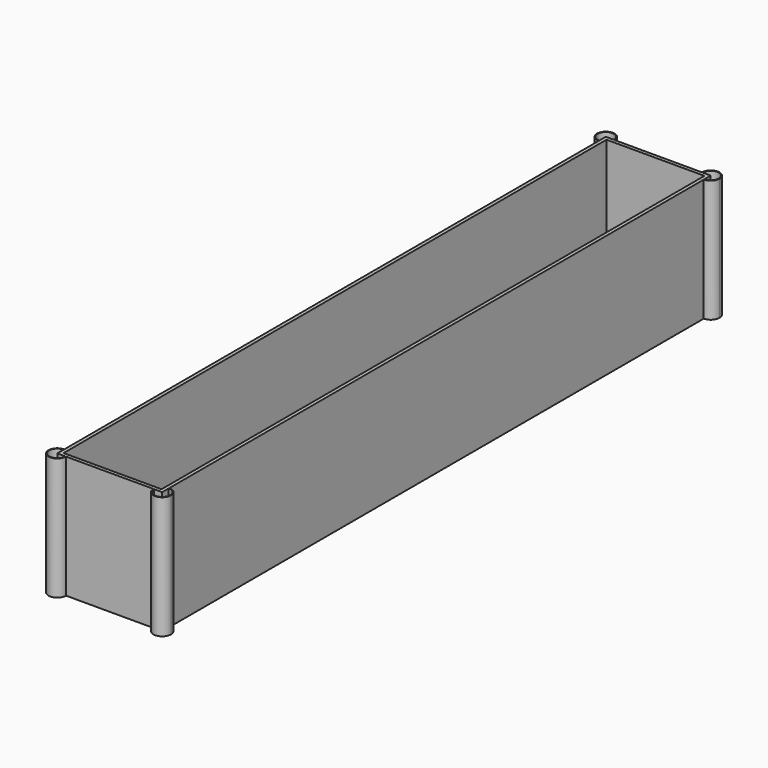
from build123d import *

# Parameters (mm, degrees)
F1_DEPTH = 44.45
F2_DEPTH = 1.27


with BuildPart() as f1:
    # F0 (on Top) → F1 (new body)
    with BuildSketch(Plane.XY):
        with BuildLine():
            Line((-16.129, 124.46), (-19.05, 124.46))
            Line((-19.05, 124.46), (-19.05, 121.539))
            ThreePointArc((-19.05, 121.539), (-18.3985955267, 121.6125602355), (-17.78, 121.8295359725))
            Line((-17.78, 121.8295359725), (-17.78, 123.19))
            Line((-17.78, 123.19), (-16.4195359725, 123.19))
            ThreePointArc((-16.4195359725, 123.19), (-16.2025602355, 123.8085955267), (-16.129, 124.46))
        make_face()
        with BuildLine():
            Line((-15.875, 124.46), (-16.129, 124.46))
            ThreePointArc((-16.129, 124.46), (-16.2025602355, 123.8085955267), (-16.4195359725, 123.19))
            Line((-16.4195359725, 123.19), (-16.1400644337, 123.19))
            ThreePointArc((-16.1400644337, 123.19), (-15.9419724564, 123.8113168813), (-15.875, 124.46))
        make_face()
        with BuildLine():
            Line((15.875, 124.46), (-15.875, 124.46))
            ThreePointArc((-15.875, 124.46), (-15.9419724564, 123.8113168813), (-16.1400644337, 123.19))
            Line((-16.1400644337, 123.19), (16.1400644337, 123.19))
            ThreePointArc((16.1400644337, 123.19), (15.9419724564, 123.8113168813), (15.875, 124.46))
        make_face()
        with BuildLine():
            Line((16.129, 124.46), (15.875, 124.46))
            ThreePointArc((15.875, 124.46), (15.9419724564, 123.8113168813), (16.1400644337, 123.19))
            Line((16.1400644337, 123.19), (16.4195359725, 123.19))
            ThreePointArc((16.4195359725, 123.19), (16.2025602355, 123.8085955267), (16.129, 124.46))
        make_face()
        with BuildLine():
            Line((19.05, 124.46), (16.129, 124.46))
            ThreePointArc((16.129, 124.46), (16.2025602355, 123.8085955267), (16.4195359725, 123.19))
            Line((16.4195359725, 123.19), (17.78, 123.19))
            Line((17.78, 123.19), (17.78, 121.8295359725))
            ThreePointArc((17.78, 121.8295359725), (18.3985955267, 121.6125602355), (19.05, 121.539))
            Line((19.05, 121.539), (19.05, 124.46))
        make_face()
        with BuildLine():
            Line((15.875, 124.46), (-15.875, 124.46))
            ThreePointArc((-15.875, 124.46), (-15.9419724564, 123.8113168813), (-16.1400644337, 123.19))
            Line((-16.1400644337, 123.19), (16.1400644337, 123.19))
            ThreePointArc((16.1400644337, 123.19), (15.9419724564, 123.8113168813), (15.875, 124.46))
        make_face()
        with BuildLine():
            ThreePointArc((22.225, 124.46), (19.05, 127.635), (15.875, 124.46))
            Line((15.875, 124.46), (16.129, 124.46))
            ThreePointArc((16.129, 124.46), (19.05, 127.381), (21.971, 124.46))
            ThreePointArc((21.971, 124.46), (21.1154589078, 122.3945410922), (19.05, 121.539))
            Line((19.05, 121.539), (19.05, 121.285))
            ThreePointArc((19.05, 121.285), (21.2950640303, 122.2149359697), (22.225, 124.46))
        make_face()
        with BuildLine():
            ThreePointArc((-19.05, 121.539), (-21.1154589078, 126.5254589078), (-16.129, 124.46))
            Line((-16.129, 124.46), (-15.875, 124.46))
            ThreePointArc((-15.875, 124.46), (-21.2950640303, 126.7050640303), (-19.05, 121.285))
            Line((-19.05, 121.285), (-19.05, 121.539))
        make_face()
        with BuildLine():
            ThreePointArc((-17.78, -121.8295359725), (-18.3985955267, -121.6125602355), (-19.05, -121.539))
            Line((-19.05, -121.539), (-19.05, -124.46))
            Line((-19.05, -124.46), (-16.129, -124.46))
            ThreePointArc((-16.129, -124.46), (-16.2025602355, -123.8085955267), (-16.4195359725, -123.19))
            Line((-16.4195359725, -123.19), (-17.78, -123.19))
            Line((-17.78, -123.19), (-17.78, -121.8295359725))
        make_face()
        with BuildLine():
            Line((-19.05, -121.539), (-19.05, -121.285))
            ThreePointArc((-19.05, -121.285), (-21.2950640303, -126.7050640303), (-15.875, -124.46))
            Line((-15.875, -124.46), (-16.129, -124.46))
            ThreePointArc((-16.129, -124.46), (-21.1154589078, -126.5254589078), (-19.05, -121.539))
        make_face()
        with BuildLine():
            ThreePointArc((16.4195359725, -123.19), (16.2025602355, -123.8085955267), (16.129, -124.46))
            Line((16.129, -124.46), (19.05, -124.46))
            Line((19.05, -124.46), (19.05, -121.539))
            ThreePointArc((19.05, -121.539), (18.3985955267, -121.6125602355), (17.78, -121.8295359725))
            Line((17.78, -121.8295359725), (17.78, -123.19))
            Line((17.78, -123.19), (16.4195359725, -123.19))
        make_face()
        with BuildLine():
            Line((16.129, -124.46), (15.875, -124.46))
            ThreePointArc((15.875, -124.46), (19.05, -127.635), (22.225, -124.46))
            ThreePointArc((22.225, -124.46), (21.2950640303, -122.2149359697), (19.05, -121.285))
            Line((19.05, -121.285), (19.05, -121.539))
            ThreePointArc((19.05, -121.539), (21.1154589078, -122.3945410922), (21.971, -124.46))
            ThreePointArc((21.971, -124.46), (19.05, -127.381), (16.129, -124.46))
        make_face()
        with BuildLine():
            ThreePointArc((16.1400644337, -123.19), (15.9419724564, -123.8113168813), (15.875, -124.46))
            Line((15.875, -124.46), (16.129, -124.46))
            ThreePointArc((16.129, -124.46), (16.2025602355, -123.8085955267), (16.4195359725, -123.19))
            Line((16.4195359725, -123.19), (16.1400644337, -123.19))
        make_face()
        with BuildLine():
            ThreePointArc((-17.78, 121.5500644337), (-18.4013168813, 121.3519724564), (-19.05, 121.285))
            Line((-19.05, 121.285), (-19.05, -121.285))
            ThreePointArc((-19.05, -121.285), (-18.4013168813, -121.3519724564), (-17.78, -121.5500644337))
            Line((-17.78, -121.5500644337), (-17.78, 121.5500644337))
        make_face()
        with BuildLine():
            Line((-16.129, 124.46), (-19.05, 124.46))
            Line((-19.05, 124.46), (-19.05, 121.539))
            ThreePointArc((-19.05, 121.539), (-18.3985955267, 121.6125602355), (-17.78, 121.8295359725))
            Line((-17.78, 121.8295359725), (-17.78, 123.19))
            Line((-17.78, 123.19), (-16.4195359725, 123.19))
            ThreePointArc((-16.4195359725, 123.19), (-16.2025602355, 123.8085955267), (-16.129, 124.46))
        make_face()
        with BuildLine():
            Line((19.05, -121.285), (19.05, 121.285))
            ThreePointArc((19.05, 121.285), (18.4013168813, 121.3519724564), (17.78, 121.5500644337))
            Line((17.78, 121.5500644337), (17.78, -121.5500644337))
            ThreePointArc((17.78, -121.5500644337), (18.4013168813, -121.3519724564), (19.05, -121.285))
        make_face()
        with BuildLine():
            Line((19.05, 124.46), (16.129, 124.46))
            ThreePointArc((16.129, 124.46), (16.2025602355, 123.8085955267), (16.4195359725, 123.19))
            Line((16.4195359725, 123.19), (17.78, 123.19))
            Line((17.78, 123.19), (17.78, 121.8295359725))
            ThreePointArc((17.78, 121.8295359725), (18.3985955267, 121.6125602355), (19.05, 121.539))
            Line((19.05, 121.539), (19.05, 124.46))
        make_face()
        with BuildLine():
            ThreePointArc((-16.1400644337, -123.19), (-15.9419724564, -123.8113168813), (-15.875, -124.46))
            Line((-15.875, -124.46), (15.875, -124.46))
            ThreePointArc((15.875, -124.46), (15.9419724564, -123.8113168813), (16.1400644337, -123.19))
            Line((16.1400644337, -123.19), (-16.1400644337, -123.19))
        make_face()
        with BuildLine():
            Line((19.05, -121.539), (19.05, -121.285))
            ThreePointArc((19.05, -121.285), (18.4013168813, -121.3519724564), (17.78, -121.5500644337))
            Line((17.78, -121.5500644337), (17.78, -121.8295359725))
            ThreePointArc((17.78, -121.8295359725), (18.3985955267, -121.6125602355), (19.05, -121.539))
        make_face()
        with BuildLine():
            Line((-16.129, -124.46), (-15.875, -124.46))
            ThreePointArc((-15.875, -124.46), (-15.9419724564, -123.8113168813), (-16.1400644337, -123.19))
            Line((-16.1400644337, -123.19), (-16.4195359725, -123.19))
            ThreePointArc((-16.4195359725, -123.19), (-16.2025602355, -123.8085955267), (-16.129, -124.46))
        make_face()
        with BuildLine():
            ThreePointArc((-17.78, -121.5500644337), (-18.4013168813, -121.3519724564), (-19.05, -121.285))
            Line((-19.05, -121.285), (-19.05, -121.539))
            ThreePointArc((-19.05, -121.539), (-18.3985955267, -121.6125602355), (-17.78, -121.8295359725))
            Line((-17.78, -121.8295359725), (-17.78, -121.5500644337))
        make_face()
        with BuildLine():
            ThreePointArc((17.78, 121.5500644337), (18.4013168813, 121.3519724564), (19.05, 121.285))
            Line((19.05, 121.285), (19.05, 121.539))
            ThreePointArc((19.05, 121.539), (18.3985955267, 121.6125602355), (17.78, 121.8295359725))
            Line((17.78, 121.8295359725), (17.78, 121.5500644337))
        make_face()
        with BuildLine():
            ThreePointArc((-17.78, 121.8295359725), (-18.3985955267, 121.6125602355), (-19.05, 121.539))
            Line((-19.05, 121.539), (-19.05, 121.285))
            ThreePointArc((-19.05, 121.285), (-18.4013168813, 121.3519724564), (-17.78, 121.5500644337))
            Line((-17.78, 121.5500644337), (-17.78, 121.8295359725))
        make_face()
    extrude(amount=F1_DEPTH)

    # F0 (on Top) → F2 (join)
    with BuildSketch(Plane.XY):
        with BuildLine():
            Line((16.1400644337, 123.19), (-16.1400644337, 123.19))
            ThreePointArc((-16.1400644337, 123.19), (-16.8049359697, 122.2149359697), (-17.78, 121.5500644337))
            Line((-17.78, 121.5500644337), (-17.78, -121.5500644337))
            ThreePointArc((-17.78, -121.5500644337), (-16.8049359697, -122.2149359697), (-16.1400644337, -123.19))
            Line((-16.1400644337, -123.19), (16.1400644337, -123.19))
            ThreePointArc((16.1400644337, -123.19), (16.8049359697, -122.2149359697), (17.78, -121.5500644337))
            Line((17.78, -121.5500644337), (17.78, 121.5500644337))
            ThreePointArc((17.78, 121.5500644337), (16.8049359697, 122.2149359697), (16.1400644337, 123.19))
        make_face()
        with BuildLine():
            ThreePointArc((-17.78, 121.8295359725), (-16.9845410922, 122.3945410922), (-16.4195359725, 123.19))
            Line((-16.4195359725, 123.19), (-17.78, 123.19))
            Line((-17.78, 123.19), (-17.78, 121.8295359725))
        make_face()
        with BuildLine():
            Line((-16.1400644337, 123.19), (-16.4195359725, 123.19))
            ThreePointArc((-16.4195359725, 123.19), (-16.9845410922, 122.3945410922), (-17.78, 121.8295359725))
            Line((-17.78, 121.8295359725), (-17.78, 121.5500644337))
            ThreePointArc((-17.78, 121.5500644337), (-16.8049359697, 122.2149359697), (-16.1400644337, 123.19))
        make_face()
        with BuildLine():
            Line((17.78, 123.19), (16.4195359725, 123.19))
            ThreePointArc((16.4195359725, 123.19), (16.9845410922, 122.3945410922), (17.78, 121.8295359725))
            Line((17.78, 121.8295359725), (17.78, 123.19))
        make_face()
        with BuildLine():
            Line((16.4195359725, 123.19), (16.1400644337, 123.19))
            ThreePointArc((16.1400644337, 123.19), (16.8049359697, 122.2149359697), (17.78, 121.5500644337))
            Line((17.78, 121.5500644337), (17.78, 121.8295359725))
            ThreePointArc((17.78, 121.8295359725), (16.9845410922, 122.3945410922), (16.4195359725, 123.19))
        make_face()
        with BuildLine():
            Line((17.78, -123.19), (17.78, -121.8295359725))
            ThreePointArc((17.78, -121.8295359725), (16.9845410922, -122.3945410922), (16.4195359725, -123.19))
            Line((16.4195359725, -123.19), (17.78, -123.19))
        make_face()
        with BuildLine():
            Line((17.78, -121.8295359725), (17.78, -121.5500644337))
            ThreePointArc((17.78, -121.5500644337), (16.8049359697, -122.2149359697), (16.1400644337, -123.19))
            Line((16.1400644337, -123.19), (16.4195359725, -123.19))
            ThreePointArc((16.4195359725, -123.19), (16.9845410922, -122.3945410922), (17.78, -121.8295359725))
        make_face()
        with BuildLine():
            ThreePointArc((-16.1400644337, -123.19), (-16.8049359697, -122.2149359697), (-17.78, -121.5500644337))
            Line((-17.78, -121.5500644337), (-17.78, -121.8295359725))
            ThreePointArc((-17.78, -121.8295359725), (-16.9845410922, -122.3945410922), (-16.4195359725, -123.19))
            Line((-16.4195359725, -123.19), (-16.1400644337, -123.19))
        make_face()
        with BuildLine():
            ThreePointArc((-16.4195359725, -123.19), (-16.9845410922, -122.3945410922), (-17.78, -121.8295359725))
            Line((-17.78, -121.8295359725), (-17.78, -123.19))
            Line((-17.78, -123.19), (-16.4195359725, -123.19))
        make_face()
        with BuildLine():
            Line((19.05, -124.46), (16.129, -124.46))
            ThreePointArc((16.129, -124.46), (19.05, -127.381), (21.971, -124.46))
            ThreePointArc((21.971, -124.46), (21.1154589078, -122.3945410922), (19.05, -121.539))
            Line((19.05, -121.539), (19.05, -124.46))
        make_face()
        with BuildLine():
            Line((-19.05, -124.46), (-19.05, -121.539))
            ThreePointArc((-19.05, -121.539), (-21.1154589078, -126.5254589078), (-16.129, -124.46))
            Line((-16.129, -124.46), (-19.05, -124.46))
        make_face()
        with BuildLine():
            ThreePointArc((21.971, 124.46), (19.05, 127.381), (16.129, 124.46))
            Line((16.129, 124.46), (19.05, 124.46))
            Line((19.05, 124.46), (19.05, 121.539))
            ThreePointArc((19.05, 121.539), (21.1154589078, 122.3945410922), (21.971, 124.46))
        make_face()
        with BuildLine():
            Line((-19.05, 121.539), (-19.05, 124.46))
            Line((-19.05, 124.46), (-16.129, 124.46))
            ThreePointArc((-16.129, 124.46), (-21.1154589078, 126.5254589078), (-19.05, 121.539))
        make_face()
    extrude(amount=F2_DEPTH)


solid = f1.part
